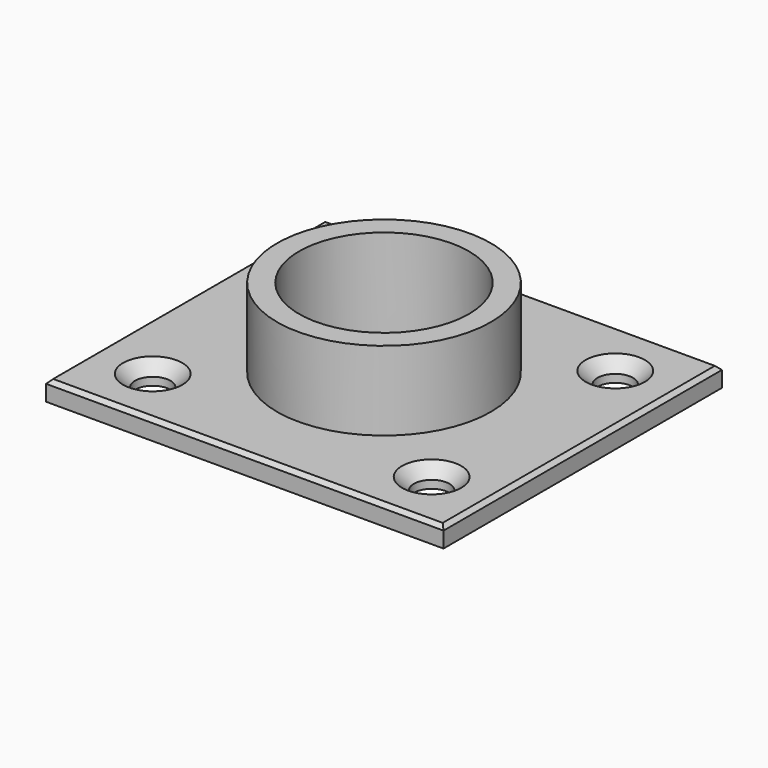
from build123d import *

# Parameters (mm, degrees)
F0_R     = 27.06303
F1_DEPTH = 25
F0_W     = 100.61507
F0_H     = 88.102676
F2_DEPTH = 5
F3_SIZE  = 1
F4_R     = 21.5
F5_DEPTH = 30
F6_R     = 4.5
F7_DEPTH = 12.5
F8_SIZE  = 3


with BuildPart() as f1:
    # F0 (on Top) → F1 (new body)
    with BuildSketch(Plane.XY):
        Circle(F0_R)
    extrude(amount=F1_DEPTH)

    # F0 (on Top) → F2 (join)
    with BuildSketch(Plane.XY):
        Rectangle(F0_W, F0_H)
        Circle(F0_R, mode=Mode.SUBTRACT)
    extrude(amount=F2_DEPTH)

    # F3
    f3_edges = [f1.edges().sort_by_distance(p)[0] for p in [
        (-50.307535, 0, 5),
        (0, -44.051338, 5),
        (50.307535, 0, 5),
        (0, 44.051338, 5),
    ]]
    chamfer(f3_edges, length=F3_SIZE)

    # F4 (on Top) → F5 (cut)
    with BuildSketch(Plane.XY):
        Circle(F4_R)
    extrude(amount=F5_DEPTH, mode=Mode.SUBTRACT)

    # F6 (on Top) → F7 (cut, symmetric)
    with BuildSketch(Plane.XY):
        with Locations((35.307535, -29.051338)):
            Circle(F6_R)
        with Locations((35.307535, 29.051338)):
            Circle(F6_R)
        with Locations((-35.307535, 29.051338)):
            Circle(F6_R)
        with Locations((-35.307535, -29.051338)):
            Circle(F6_R)
    extrude(amount=F7_DEPTH, both=True, mode=Mode.SUBTRACT)

    # F8
    f8_edges = [f1.edges().sort_by_distance(p)[0] for p in [
        (-39.807535, -29.051338, 5),
        (-39.807535, 29.051338, 5),
        (30.807535, 29.051338, 5),
        (30.807535, -29.051338, 5),
    ]]
    chamfer(f8_edges, length=F8_SIZE)


solid = f1.part
